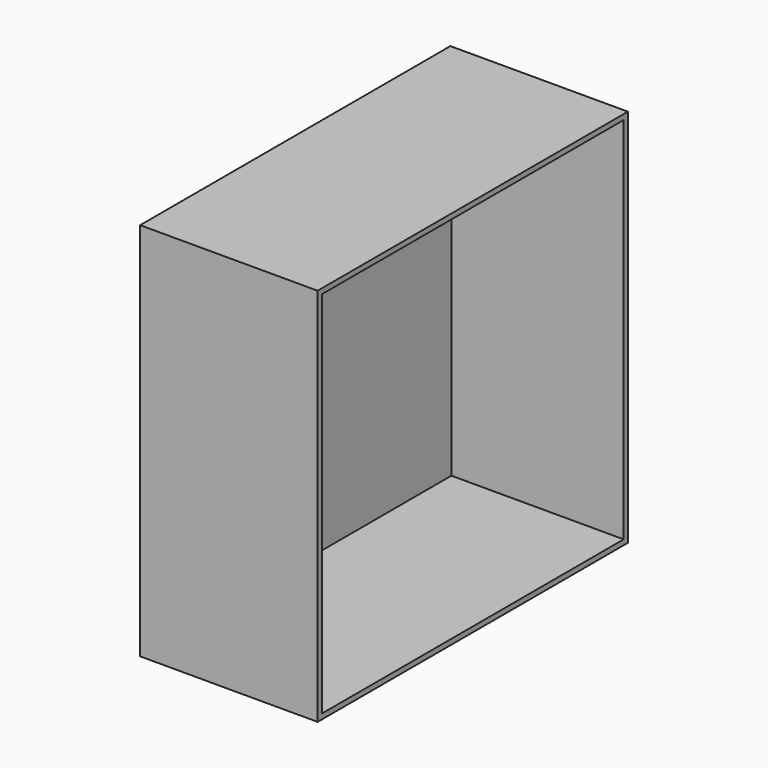
from build123d import *

# Parameters (mm, degrees)
F0_W     = 840
F0_H     = 1840
F1_DEPTH = 1800
F2_T     = 25.4


with BuildPart() as f1:
    # F0 (on Top) → F1 (new body)
    with BuildSketch(Plane.XY):
        Rectangle(F0_W, F0_H)
    extrude(amount=-F1_DEPTH)

    # F2
    f2_openings = [f1.faces().sort_by_distance(p)[0] for p in [
        (420, 0, -900),
    ]]
    offset(amount=F2_T, openings=f2_openings, kind=Kind.INTERSECTION)


solid = f1.part
